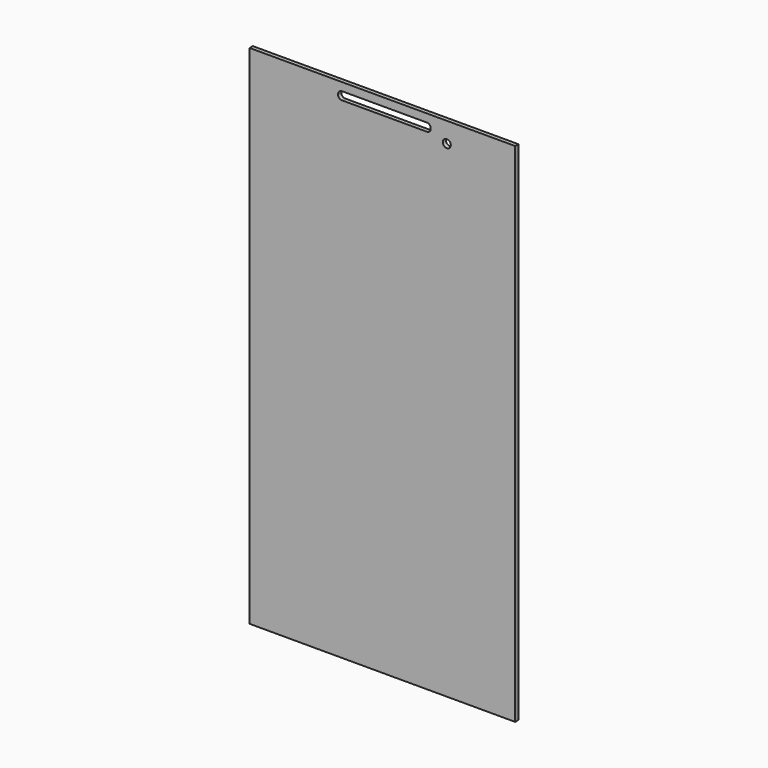
from build123d import *

# Parameters (mm, degrees)
CYLINDER001_R     = 1
CYLINDER001_DEPTH = 10
BOX002_W          = 23
BOX002_H          = 10
BOX002_DEPTH      = 2
FILLET_R          = 0.9
CYLINDER_R        = 1
CYLINDER_DEPTH    = 2
BOX005_W          = 66
BOX005_H          = 1
BOX005_DEPTH      = 126


with BuildPart() as cilindro001:
    # Cylinder001 → Cylinder001 (new body)
    with BuildSketch(Plane(origin=(48, 3, 120), x_dir=(0, 0, -1), z_dir=(0, -1, 0))):
        Circle(CYLINDER001_R)
    extrude(amount=CYLINDER001_DEPTH)


with BuildPart() as fillet_body:
    # Box002 → Box002 (new body)
    with BuildSketch(Plane(origin=(21, -2, 121), x_dir=(1, 0, 0), z_dir=(0, 0, 1))):
        with Locations((11.5, 5)):
            Rectangle(BOX002_W, BOX002_H)
    extrude(amount=BOX002_DEPTH)

    # Fillet
    fillet_edges = [fillet_body.edges().sort_by_distance(p)[0] for p in [
        (21, 3, 123),
        (21, 3, 121),
        (44, 3, 123),
        (44, 3, 121),
    ]]
    fillet(fillet_edges, radius=FILLET_R)


with BuildPart() as fillet_body_1:
    # Fillet placement: moved
    add(fillet_body.part.moved(Location((0, -6, 0))))


with BuildPart() as cilindro:
    # Cylinder → Cylinder (new body)
    with BuildSketch(Plane(origin=(32, 2, 118), x_dir=(0, 0, -1), z_dir=(0, -1, 0))):
        Circle(CYLINDER_R)
    extrude(amount=CYLINDER_DEPTH)


with BuildPart() as screen_protector:
    # Box005 → Box005 (new body)
    with BuildSketch(Plane(origin=(-1, -2, -1), x_dir=(1, 0, 0), z_dir=(0, 0, 1))):
        with Locations((33, 0.5)):
            Rectangle(BOX005_W, BOX005_H)
    extrude(amount=BOX005_DEPTH)

    # Cut004: cut Cilindro
    add(cilindro.part, mode=Mode.SUBTRACT)

    # Cut005: cut Fillet body
    add(fillet_body_1.part, mode=Mode.SUBTRACT)

    # Cut016: cut Cilindro001
    add(cilindro001.part, mode=Mode.SUBTRACT)


solid = screen_protector.part
